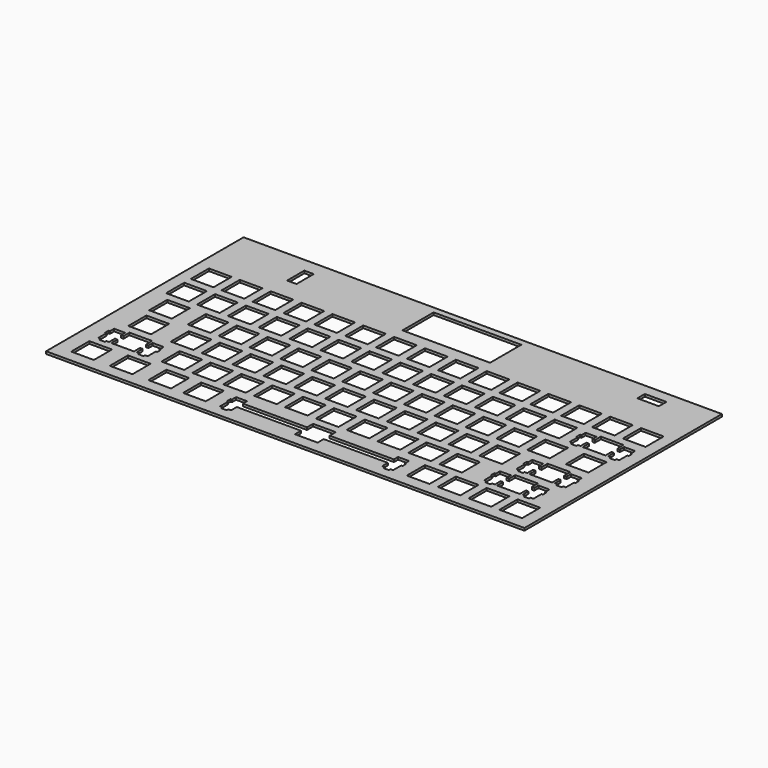
from build123d import *

# Parameters (mm, degrees)
SKETCH_W    = 295.275915
SKETCH_H    = 152.3631
SKETCH_W_2  = 14.0007
SKETCH_H_2  = 13.9996
SKETCH_H_3  = 13.999
SKETCH_W_3  = 13.99949
SKETCH_H_4  = 13.99945
SKETCH_W_4  = 13.9994
SKETCH_W_5  = 13.9993
SKETCH_W_6  = 14.001
SKETCH_H_5  = 13.9997
SKETCH_W_7  = 13.999
SKETCH_W_8  = 13.9995
SKETCH_W_9  = 13.9998
SKETCH_W_10 = 14
SKETCH_W_11 = 14.00084
SKETCH_W_12 = 5.8
SKETCH_H_6  = 13.3
SKETCH_W_13 = 54.1
SKETCH_H_7  = 24.1
SKETCH_W_14 = 13.3
SKETCH_H_8  = 5.8
PAD_DEPTH   = 1.5


with BuildPart() as part:
    # Sketch → Pad (new body)
    with BuildSketch(Plane.XY):
        with Locations((147.733042, 76.47645)):
            Rectangle(SKETCH_W, SKETCH_H)
        with Locations((62.00755, 71.7331)):
            Rectangle(SKETCH_W_2, SKETCH_H_2, mode=Mode.SUBTRACT)
        with Locations((71.53255, 109.8345)):
            Rectangle(SKETCH_W_2, SKETCH_H_3, mode=Mode.SUBTRACT)
        Polygon((147.876, 21.5828), (147.876, 16.8837), (108.251, 16.8837), (108.251, 20.1138), (101.501, 20.1138), (101.501, 16.8837), (100.675, 16.8837), (100.675, 14.0836), (101.501, 14.0836), (101.501, 7.81346), (103.226, 7.81346), (103.226, 6.61321), (106.525, 6.61321), (106.525, 7.81346), (108.251, 7.81346), (108.251, 12.2838), (147.876, 12.2838), (147.876, 7.58335), (161.875, 7.58335), (161.875, 12.2838), (201.501, 12.2838), (201.501, 7.81346), (203.225, 7.81346), (203.225, 6.61321), (206.525, 6.61321), (206.525, 7.81346), (208.25, 7.81346), (208.25, 14.0836), (209.076, 14.0836), (209.076, 16.8837), (208.25, 16.8837), (208.25, 20.1138), (201.501, 20.1138), (201.501, 16.8837), (161.875, 16.8837), (161.875, 21.5828), align=None, mode=Mode.SUBTRACT)
        with Locations((16.763155, 14.583075)):
            Rectangle(SKETCH_W_3, SKETCH_H_4, mode=Mode.SUBTRACT)
        with Locations((40.5756, 14.583075)):
            Rectangle(SKETCH_W_4, SKETCH_H_4, mode=Mode.SUBTRACT)
        with Locations((64.38815, 14.583075)):
            Rectangle(SKETCH_W_5, SKETCH_H_4, mode=Mode.SUBTRACT)
        with Locations((85.81935, 14.583075)):
            Rectangle(SKETCH_W_5, SKETCH_H_4, mode=Mode.SUBTRACT)
        with Locations((223.9325, 14.583075)):
            Rectangle(SKETCH_W_6, SKETCH_H_4, mode=Mode.SUBTRACT)
        with Locations((242.9825, 14.583075)):
            Rectangle(SKETCH_W_6, SKETCH_H_4, mode=Mode.SUBTRACT)
        with Locations((262.0325, 14.583075)):
            Rectangle(SKETCH_W_6, SKETCH_H_4, mode=Mode.SUBTRACT)
        with Locations((281.0825, 14.583075)):
            Rectangle(SKETCH_W_6, SKETCH_H_4, mode=Mode.SUBTRACT)
        Polygon((19.2884, 40.6344), (19.2884, 35.9336), (17.7629, 35.9336), (17.7629, 39.164), (11.0133, 39.164), (11.0133, 35.9336), (10.1878, 35.9336), (10.1878, 33.1349), (11.0133, 33.1349), (11.0133, 26.8648), (12.7386, 26.8648), (12.7386, 25.6632), (16.039, 25.6632), (16.039, 26.8648), (17.7629, 26.8648), (17.7629, 31.3338), (19.2884, 31.3338), (19.2884, 26.6347), (33.2879, 26.6347), (33.2879, 31.3338), (34.8134, 31.3338), (34.8134, 26.8648), (36.5386, 26.8648), (36.5386, 25.6632), (39.8392, 25.6632), (39.8392, 26.8648), (41.5629, 26.8648), (41.5629, 33.1349), (42.3884, 33.1349), (42.3884, 35.9336), (41.5629, 35.9336), (41.5629, 39.164), (34.8134, 39.164), (34.8134, 35.9336), (33.2879, 35.9336), (33.2879, 40.6344), align=None, mode=Mode.SUBTRACT)
        Polygon((257.413, 40.6344), (257.413, 35.9336), (255.888, 35.9336), (255.888, 39.164), (249.138, 39.164), (249.138, 35.9336), (248.313, 35.9336), (248.313, 33.1349), (249.138, 33.1349), (249.138, 26.8648), (250.863, 26.8648), (250.863, 25.6632), (254.164, 25.6632), (254.164, 26.8648), (255.888, 26.8648), (255.888, 31.3338), (257.413, 31.3338), (257.413, 26.6347), (271.413, 26.6347), (271.413, 31.3338), (272.939, 31.3338), (272.939, 26.8648), (274.664, 26.8648), (274.664, 25.6632), (277.964, 25.6632), (277.964, 26.8648), (279.688, 26.8648), (279.688, 33.1349), (280.513, 33.1349), (280.513, 35.9336), (279.688, 35.9336), (279.688, 39.164), (272.939, 39.164), (272.939, 35.9336), (271.413, 35.9336), (271.413, 40.6344), align=None, mode=Mode.SUBTRACT)
        with Locations((57.24435, 33.63455)):
            Rectangle(SKETCH_W_5, SKETCH_H_5, mode=Mode.SUBTRACT)
        with Locations((76.29435, 33.63455)):
            Rectangle(SKETCH_W_5, SKETCH_H_5, mode=Mode.SUBTRACT)
        with Locations((95.34435, 33.63455)):
            Rectangle(SKETCH_W_5, SKETCH_H_5, mode=Mode.SUBTRACT)
        with Locations((114.3945, 33.63455)):
            Rectangle(SKETCH_W_7, SKETCH_H_5, mode=Mode.SUBTRACT)
        with Locations((133.4445, 33.63455)):
            Rectangle(SKETCH_W_7, SKETCH_H_5, mode=Mode.SUBTRACT)
        with Locations((152.4945, 33.63455)):
            Rectangle(SKETCH_W_7, SKETCH_H_5, mode=Mode.SUBTRACT)
        with Locations((171.5445, 33.63455)):
            Rectangle(SKETCH_W_7, SKETCH_H_5, mode=Mode.SUBTRACT)
        with Locations((190.5945, 33.63455)):
            Rectangle(SKETCH_W_7, SKETCH_H_5, mode=Mode.SUBTRACT)
        with Locations((209.6445, 33.63455)):
            Rectangle(SKETCH_W_7, SKETCH_H_5, mode=Mode.SUBTRACT)
        with Locations((228.6945, 33.63455)):
            Rectangle(SKETCH_W_7, SKETCH_H_5, mode=Mode.SUBTRACT)
        Polygon((262.176, 59.6829), (262.176, 54.9836), (260.651, 54.9836), (260.651, 58.214), (253.899, 58.214), (253.899, 54.9836), (253.075, 54.9836), (253.075, 52.1836), (253.899, 52.1836), (253.899, 45.9147), (255.626, 45.9147), (255.626, 44.7132), (258.925, 44.7132), (258.925, 45.9147), (260.651, 45.9147), (260.651, 50.3837), (262.176, 50.3837), (262.176, 45.6833), (276.175, 45.6833), (276.175, 50.3837), (277.701, 50.3837), (277.701, 45.9147), (279.425, 45.9147), (279.425, 44.7132), (282.725, 44.7132), (282.725, 45.9147), (284.45, 45.9147), (284.45, 52.1836), (285.276, 52.1836), (285.276, 54.9836), (284.45, 54.9836), (284.45, 58.214), (277.701, 58.214), (277.701, 54.9836), (276.175, 54.9836), (276.175, 59.6829), align=None, mode=Mode.SUBTRACT)
        with Locations((21.52565, 52.6831)):
            Rectangle(SKETCH_W_8, SKETCH_H_2, mode=Mode.SUBTRACT)
        with Locations((47.71935, 52.6831)):
            Rectangle(SKETCH_W_5, SKETCH_H_2, mode=Mode.SUBTRACT)
        with Locations((66.76935, 52.6831)):
            Rectangle(SKETCH_W_5, SKETCH_H_2, mode=Mode.SUBTRACT)
        with Locations((85.81935, 52.6831)):
            Rectangle(SKETCH_W_5, SKETCH_H_2, mode=Mode.SUBTRACT)
        with Locations((104.86935, 52.6831)):
            Rectangle(SKETCH_W_5, SKETCH_H_2, mode=Mode.SUBTRACT)
        with Locations((123.9195, 52.6831)):
            Rectangle(SKETCH_W_7, SKETCH_H_2, mode=Mode.SUBTRACT)
        with Locations((142.9695, 52.6831)):
            Rectangle(SKETCH_W_7, SKETCH_H_2, mode=Mode.SUBTRACT)
        with Locations((162.0195, 52.6831)):
            Rectangle(SKETCH_W_7, SKETCH_H_2, mode=Mode.SUBTRACT)
        with Locations((181.0695, 52.6831)):
            Rectangle(SKETCH_W_7, SKETCH_H_2, mode=Mode.SUBTRACT)
        with Locations((200.1195, 52.6831)):
            Rectangle(SKETCH_W_7, SKETCH_H_2, mode=Mode.SUBTRACT)
        with Locations((219.1695, 52.6831)):
            Rectangle(SKETCH_W_7, SKETCH_H_2, mode=Mode.SUBTRACT)
        with Locations((238.2195, 52.6831)):
            Rectangle(SKETCH_W_7, SKETCH_H_2, mode=Mode.SUBTRACT)
        with Locations((19.1444, 71.7331)):
            Rectangle(SKETCH_W_4, SKETCH_H_2, mode=Mode.SUBTRACT)
        with Locations((42.95755, 71.7331)):
            Rectangle(SKETCH_W_2, SKETCH_H_2, mode=Mode.SUBTRACT)
        with Locations((81.05755, 71.7331)):
            Rectangle(SKETCH_W_2, SKETCH_H_2, mode=Mode.SUBTRACT)
        with Locations((100.1071, 71.7331)):
            Rectangle(SKETCH_W_9, SKETCH_H_2, mode=Mode.SUBTRACT)
        with Locations((119.157, 71.7331)):
            Rectangle(SKETCH_W_10, SKETCH_H_2, mode=Mode.SUBTRACT)
        with Locations((138.2075, 71.7331)):
            Rectangle(SKETCH_W_6, SKETCH_H_2, mode=Mode.SUBTRACT)
        with Locations((157.2575, 71.7331)):
            Rectangle(SKETCH_W_6, SKETCH_H_2, mode=Mode.SUBTRACT)
        with Locations((176.3075, 71.7331)):
            Rectangle(SKETCH_W_6, SKETCH_H_2, mode=Mode.SUBTRACT)
        with Locations((195.3575, 71.7331)):
            Rectangle(SKETCH_W_6, SKETCH_H_2, mode=Mode.SUBTRACT)
        with Locations((214.4075, 71.7331)):
            Rectangle(SKETCH_W_6, SKETCH_H_2, mode=Mode.SUBTRACT)
        with Locations((233.4575, 71.7331)):
            Rectangle(SKETCH_W_6, SKETCH_H_2, mode=Mode.SUBTRACT)
        with Locations((252.5075, 71.7331)):
            Rectangle(SKETCH_W_6, SKETCH_H_2, mode=Mode.SUBTRACT)
        with Locations((276.3195, 71.7331)):
            Rectangle(SKETCH_W_7, SKETCH_H_2, mode=Mode.SUBTRACT)
        Polygon((264.557, 97.7829), (264.557, 93.0836), (263.033, 93.0836), (263.033, 96.314), (256.282, 96.314), (256.282, 93.0836), (255.458, 93.0836), (255.458, 90.2836), (256.282, 90.2836), (256.282, 84.0133), (258.007, 84.0133), (258.007, 82.8132), (261.308, 82.8132), (261.308, 84.0133), (263.033, 84.0133), (263.033, 88.4837), (264.557, 88.4837), (264.557, 83.7833), (278.558, 83.7833), (278.558, 88.4837), (280.082, 88.4837), (280.082, 84.0133), (281.807, 84.0133), (281.807, 82.8132), (285.108, 82.8132), (285.108, 84.0133), (286.833, 84.0133), (286.833, 90.2836), (287.657, 90.2836), (287.657, 93.0836), (286.833, 93.0836), (286.833, 96.314), (280.082, 96.314), (280.082, 93.0836), (278.558, 93.0836), (278.558, 97.7829), align=None, mode=Mode.SUBTRACT)
        with Locations((14.38258, 90.7831)):
            Rectangle(SKETCH_W_11, SKETCH_H_2, mode=Mode.SUBTRACT)
        with Locations((33.43255, 90.7831)):
            Rectangle(SKETCH_W_2, SKETCH_H_2, mode=Mode.SUBTRACT)
        with Locations((52.48255, 90.7831)):
            Rectangle(SKETCH_W_2, SKETCH_H_2, mode=Mode.SUBTRACT)
        with Locations((71.53255, 90.7831)):
            Rectangle(SKETCH_W_2, SKETCH_H_2, mode=Mode.SUBTRACT)
        with Locations((90.58255, 90.7831)):
            Rectangle(SKETCH_W_2, SKETCH_H_2, mode=Mode.SUBTRACT)
        with Locations((109.6325, 90.7831)):
            Rectangle(SKETCH_W_6, SKETCH_H_2, mode=Mode.SUBTRACT)
        with Locations((128.6825, 90.7831)):
            Rectangle(SKETCH_W_6, SKETCH_H_2, mode=Mode.SUBTRACT)
        with Locations((147.7325, 90.7831)):
            Rectangle(SKETCH_W_6, SKETCH_H_2, mode=Mode.SUBTRACT)
        with Locations((166.7825, 90.7831)):
            Rectangle(SKETCH_W_6, SKETCH_H_2, mode=Mode.SUBTRACT)
        with Locations((185.8325, 90.7831)):
            Rectangle(SKETCH_W_6, SKETCH_H_2, mode=Mode.SUBTRACT)
        with Locations((204.8825, 90.7831)):
            Rectangle(SKETCH_W_6, SKETCH_H_2, mode=Mode.SUBTRACT)
        with Locations((223.9325, 90.7831)):
            Rectangle(SKETCH_W_6, SKETCH_H_2, mode=Mode.SUBTRACT)
        with Locations((242.9825, 90.7831)):
            Rectangle(SKETCH_W_6, SKETCH_H_2, mode=Mode.SUBTRACT)
        with Locations((14.38258, 109.8345)):
            Rectangle(SKETCH_W_11, SKETCH_H_3, mode=Mode.SUBTRACT)
        with Locations((33.43255, 109.8345)):
            Rectangle(SKETCH_W_2, SKETCH_H_3, mode=Mode.SUBTRACT)
        with Locations((52.48255, 109.8345)):
            Rectangle(SKETCH_W_2, SKETCH_H_3, mode=Mode.SUBTRACT)
        with Locations((90.58255, 109.8345)):
            Rectangle(SKETCH_W_2, SKETCH_H_3, mode=Mode.SUBTRACT)
        with Locations((109.6325, 109.8345)):
            Rectangle(SKETCH_W_6, SKETCH_H_3, mode=Mode.SUBTRACT)
        with Locations((128.6825, 109.8345)):
            Rectangle(SKETCH_W_6, SKETCH_H_3, mode=Mode.SUBTRACT)
        with Locations((147.7325, 109.8345)):
            Rectangle(SKETCH_W_6, SKETCH_H_3, mode=Mode.SUBTRACT)
        with Locations((166.7825, 109.8345)):
            Rectangle(SKETCH_W_6, SKETCH_H_3, mode=Mode.SUBTRACT)
        with Locations((185.8325, 109.8345)):
            Rectangle(SKETCH_W_6, SKETCH_H_3, mode=Mode.SUBTRACT)
        with Locations((204.8825, 109.8345)):
            Rectangle(SKETCH_W_6, SKETCH_H_3, mode=Mode.SUBTRACT)
        with Locations((223.9325, 109.8345)):
            Rectangle(SKETCH_W_6, SKETCH_H_3, mode=Mode.SUBTRACT)
        with Locations((242.9825, 109.8345)):
            Rectangle(SKETCH_W_6, SKETCH_H_3, mode=Mode.SUBTRACT)
        with Locations((262.0325, 109.8345)):
            Rectangle(SKETCH_W_6, SKETCH_H_3, mode=Mode.SUBTRACT)
        with Locations((281.0825, 109.8345)):
            Rectangle(SKETCH_W_6, SKETCH_H_3, mode=Mode.SUBTRACT)
        with Locations((47.6, 137.15)):
            Rectangle(SKETCH_W_12, SKETCH_H_6, mode=Mode.SUBTRACT)
        with Locations((147.65, 136.65)):
            Rectangle(SKETCH_W_13, SKETCH_H_7, mode=Mode.SUBTRACT)
        with Locations((259.95, 142.9)):
            Rectangle(SKETCH_W_14, SKETCH_H_8, mode=Mode.SUBTRACT)
    extrude(amount=PAD_DEPTH)


solid = part.part
